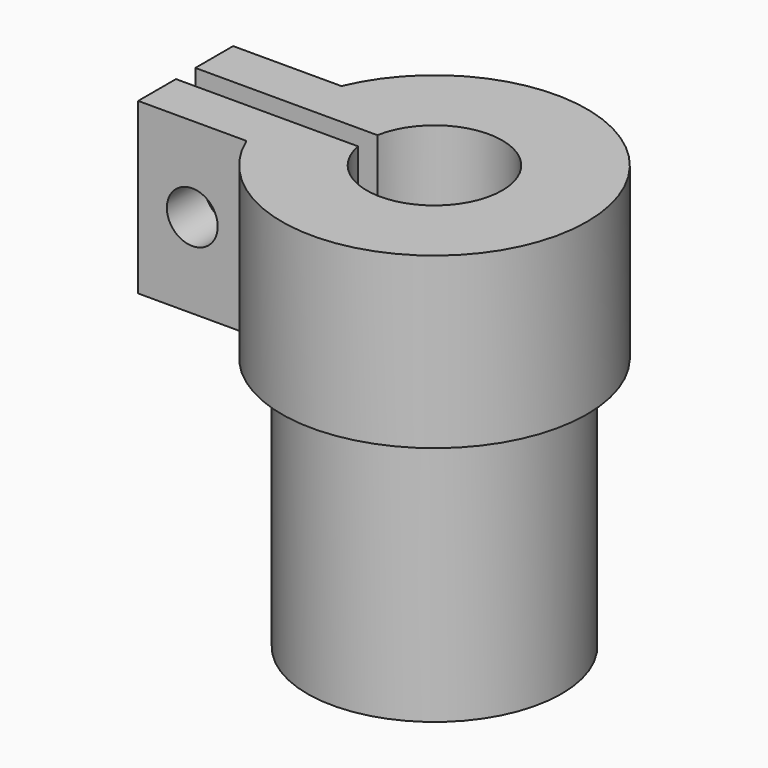
from build123d import *

# Parameters (mm, degrees)
F1_DEPTH  = 10
F2_R      = 7.5
F3_DEPTH  = 15
F4_R      = 2.5
F5_DEPTH  = 10
F6_R      = 1.5
F7_DEPTH  = 25
F8_R      = 1.514445
F9_DEPTH  = 25
F10_W     = 6.295164
F10_H     = 2.4
F11_DEPTH = 8


with BuildPart() as f1:
    # F0 (on Top) → F1 (new body)
    with BuildSketch(Plane.XY):
        with BuildLine():
            Line((-14.676502, -3.500946), (-8.291163, -3.500946))
            ThreePointArc((-8.291163, -3.500946), (9, 0), (-8.291163, 3.500946))
            Line((-8.291163, 3.500946), (-14.676502, 3.500946))
            Line((-14.676502, 3.500946), (-14.676502, 0.713968))
            Line((-14.676502, 0.713968), (-3.935766, 0.713968))
            ThreePointArc((-3.935766, 0.713968), (4, 0), (-3.935766, -0.713968))
            Line((-3.935766, -0.713968), (-14.676502, -0.713968))
            Line((-14.676502, -0.713968), (-14.676502, -3.500946))
        make_face()
    extrude(amount=F1_DEPTH)

    # F2 (on face) → F3 (join)
    with BuildSketch(Plane(origin=(0, 0, 0), x_dir=(1, 0, 0), z_dir=(0, 0, -1))):
        Circle(F2_R)
    extrude(amount=F3_DEPTH)

    # F4 (on face) → F5 (cut)
    with BuildSketch(Plane(origin=(0, 0, -15), x_dir=(1, 0, 0), z_dir=(0, 0, -1))):
        Circle(F4_R)
    extrude(amount=-F5_DEPTH, mode=Mode.SUBTRACT)

    # F6 (on face) → F7 (cut)
    with BuildSketch(Plane.XZ.offset(3.500946)):
        with Locations((-11.483832, 5)):
            Circle(F6_R)
    extrude(amount=-F7_DEPTH, mode=Mode.SUBTRACT)

    # F8 (on Front) → F9 (cut)
    with BuildSketch(Plane.XZ):
        with Locations((0, -10.001184)):
            Circle(F8_R)
    extrude(amount=-F9_DEPTH, mode=Mode.SUBTRACT)

    # F10 (on face) → F11 (cut)
    with BuildSketch(Plane(origin=(0, 0, -15), x_dir=(1, 0, 0), z_dir=(0, 0, -1))):
        with Locations((0, -4.299535)):
            Rectangle(F10_W, F10_H)
    extrude(amount=-F11_DEPTH, mode=Mode.SUBTRACT)


solid = f1.part
